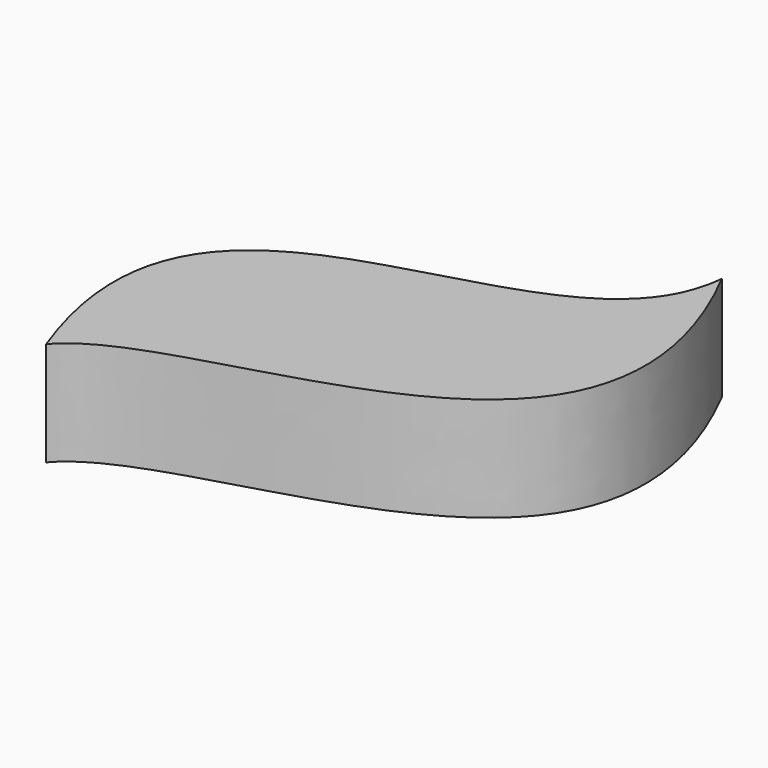
from build123d import *

# Parameters (mm, degrees)
F1_DEPTH = 2


with BuildPart() as f1:
    # F0 (on Top) → F1 (new body)
    with BuildSketch(Plane.XY):
        with BuildLine():
            add(Edge.make_bspline(
                [(-14.052926, 3.8), (-16.636066, 10.771239), (-7.837455, 7.835563), (-7.464342, 11.796499)],
                knots=[0, 0, 0, 0, 10.36115, 10.36115, 10.36115, 10.36115], degree=3))
            add(Edge.make_bspline(
                [(-7.464342, 11.796499), (-3.871783, 4.825224), (-12.50474, 5.679017), (-14.052926, 3.8)],
                knots=[0, 0, 0, 0, 10.36115, 10.36115, 10.36115, 10.36115], degree=3))
        make_face()
    extrude(amount=F1_DEPTH)


solid = f1.part
